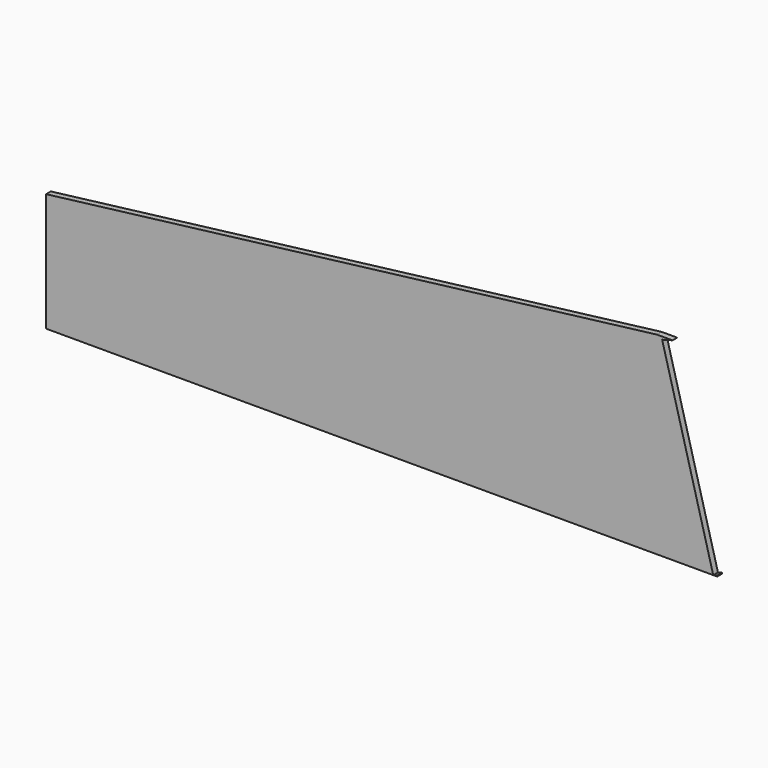
from build123d import *

# Parameters (mm, degrees)
BOX027_W               = 159
BOX027_H               = 170.5
BOX027_DEPTH           = 20.5
BOX027_PLACEMENT_ANGLE = 7
BOX026_W               = 25
BOX026_H               = 170
BOX026_DEPTH           = 50
BOX026_PLACEMENT_ANGLE = 15
BOX025_W               = 170
BOX025_H               = 1.5
BOX025_DEPTH           = 49


with BuildPart() as top002:
    # Box027 → Box027 (new body)
    with BuildSketch(Plane.XY):
        with Locations((79.5, 85.25)):
            Rectangle(BOX027_W, BOX027_H)
    extrude(amount=BOX027_DEPTH)


with BuildPart() as top002_1:
    # Box027 placement: moved
    add(top002.part.moved(Location((0, 0, 20))).rotate(Axis((0, 0, 20), (0, -1, 0)), BOX027_PLACEMENT_ANGLE))


with BuildPart() as face003:
    # Box026 → Box026 (new body)
    with BuildSketch(Plane.XY):
        with Locations((12.5, 85)):
            Rectangle(BOX026_W, BOX026_H)
    extrude(amount=BOX026_DEPTH)


with BuildPart() as face003_1:
    # Box026 placement: moved
    add(face003.part.moved(Location((169, -14, -10))).rotate(Axis((169, -14, -10), (0, -1, 0)), BOX026_PLACEMENT_ANGLE))


with BuildPart() as sidewall001:
    # Box025 → Box025 (new body)
    with BuildSketch(Plane.XY.offset(-10)):
        with Locations((85, 0.75)):
            Rectangle(BOX025_W, BOX025_H)
    extrude(amount=BOX025_DEPTH)

    # Cut009: cut Face003
    add(face003_1.part, mode=Mode.SUBTRACT)

    # Cut010: cut top002
    add(top002_1.part, mode=Mode.SUBTRACT)


with BuildPart() as sidewall001_1:
    # Cut010 placement: moved
    add(sidewall001.part.moved(Location((0, 168, 0))))


solid = sidewall001_1.part
